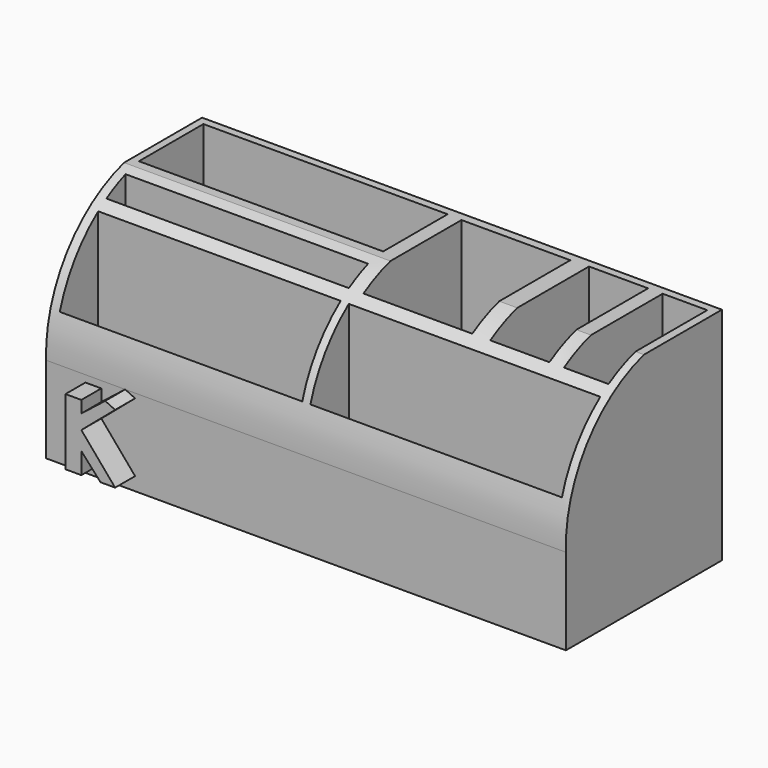
from build123d import *

# Parameters (mm, degrees)
F1_DEPTH = 127
F2_W     = 119.324183
F2_H     = 39.356043
F2_W_2   = 118.48682
F2_H_2   = 11.723077
F2_H_3   = 23.446153
F2_W_3   = 122.88297
F2_W_4   = 21.771431
F2_H_4   = 60.29011
F2_W_5   = 28.889016
F2_W_6   = 53.172529
F2_H_5   = 59.871432
F3_DEPTH = 88.9
F5_DEPTH = 12.192


with BuildPart() as f1:
    # F0 (on Right) → F1 (new body, symmetric)
    with BuildSketch(Plane.YZ):
        with BuildLine():
            Line((-37.651766, -16.686577), (-37.651766, -58.902193))
            Line((-37.651766, -58.902193), (57.618611, -58.902193))
            Line((57.618611, -58.902193), (57.618611, 48.918769))
            Line((57.618611, 48.918769), (9.983422, 48.918769))
            ThreePointArc((9.983422, 48.918769), (-25.152108, 24.333902), (-37.651766, -16.686577))
        make_face()
    extrude(amount=F1_DEPTH, both=True)

    # F2 (on face) → F3 (cut)
    with BuildSketch(Plane.XY.offset(48.918769)):
        with Locations((-63.639564, 34.122527)):
            Rectangle(F2_W, F2_H)
        with Locations((-63.220882, -0.628023)):
            Rectangle(F2_W_2, F2_H_2)
        with Locations((-63.220882, -23.236814)):
            Rectangle(F2_W_2, F2_H_3)
        with Locations((61.441485, -23.236814)):
            Rectangle(F2_W_3, F2_H_3)
        with Locations((111.997254, 23.655494)):
            Rectangle(F2_W_4, F2_H_4)
        with Locations((79.549454, 23.655494)):
            Rectangle(F2_W_5, F2_H_4)
        with Locations((29.726374, 23.446155)):
            Rectangle(F2_W_6, F2_H_5)
    extrude(amount=-F3_DEPTH, mode=Mode.SUBTRACT)

    # F4 (on face) → F5 (join)
    with BuildSketch(Plane.XZ.offset(37.651766)):
        Polygon((-100.012504, -20.042138), (-107.780464, -20.042138), (-107.780464, -52.408643), (-100.012504, -52.408643), (-100.012504, -42.05136), (-90.626217, -52.408643), (-83.505586, -52.408643), (-100.012504, -32.988738), (-83.505586, -18.957859), (-88.360563, -16.686577), (-100.012504, -25.868108), align=None)
    extrude(amount=F5_DEPTH)


solid = f1.part
